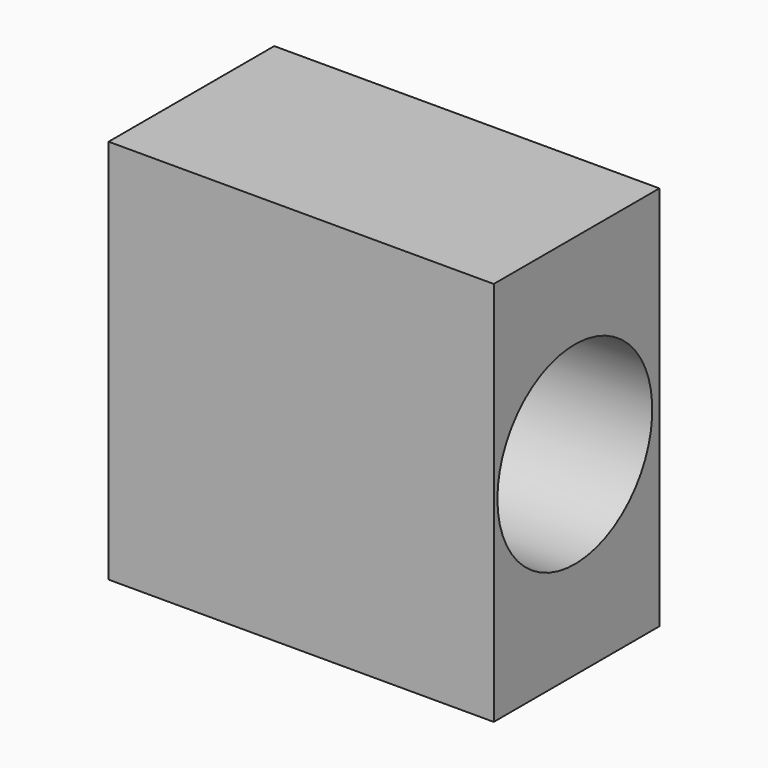
from build123d import *

# Parameters (mm, degrees)
F0_W     = 141.7553946376
F0_H     = 141.903989017
F1_DEPTH = 76.2
F2_R     = 35.6206675953
F3_DEPTH = 152.4
F5_DEPTH = 0.508
F6_R     = 2.3752413704
F7_DEPTH = 7.62


with BuildPart() as f1:
    # F0 (on Front) → F1 (new body)
    with BuildSketch(Plane.XZ):
        with Locations((0.6661005318, -0.6118379533)):
            Rectangle(F0_W, F0_H)
    extrude(amount=F1_DEPTH)

    # F2 (on face) → F3 (cut)
    with BuildSketch(Plane(origin=(-70.211596787, 0, 0), x_dir=(0, -1, 0), z_dir=(-1, 0, 0))):
        with Locations((38.8970784843, 0)):
            Circle(F2_R)
    extrude(amount=-F3_DEPTH, mode=Mode.SUBTRACT)

    # F4 (on face) → F5 (join)
    with BuildSketch(Plane(origin=(0, 0, -71.5638324618), x_dir=(1, 0, 0), z_dir=(0, 0, -1))):
        with BuildLine():
            add(Edge.make_bspline(
                [(-54.6526201069, 43.9366996288), (-54.6526201069, 27.8657274233), (27.3263100535, 35.901213526), (109.3052402139, 43.9366996288), (27.3263100535, 51.9721857316), (-54.6526201069, 60.0076718344), (-54.6526201069, 43.9366996288)],
                knots=[0, 0, 0, 2.0943951024, 2.0943951024, 4.1887902048, 4.1887902048, 6.2831853072, 6.2831853072, 6.2831853072], degree=2, weights=[1, 0.5, 1, 0.5, 1, 0.5, 1]))
        make_face()
    extrude(amount=F5_DEPTH)

    # F6 (on face) → F7 (cut)
    with BuildSketch(Plane(origin=(0, 0, -71.5638324618), x_dir=(1, 0, 0), z_dir=(0, 0, -1))):
        with Locations((-64.7707954049, 72.0797255635)):
            Circle(F6_R)
    extrude(amount=-F7_DEPTH, mode=Mode.SUBTRACT)


solid = f1.part
